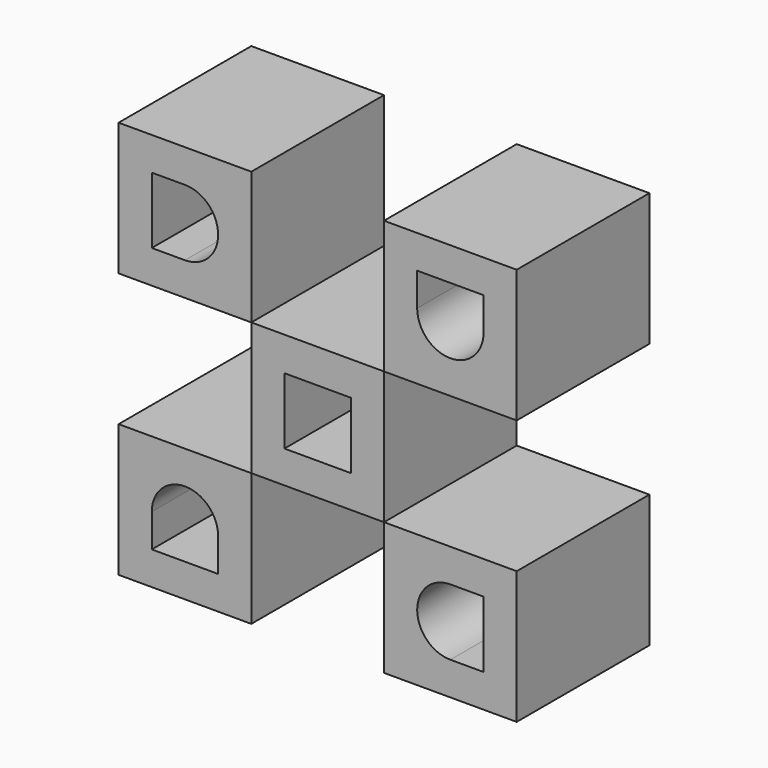
from build123d import *

# Parameters (mm, degrees)
F0_W     = 10
F0_H     = 10
F1_DEPTH = 25


with BuildPart() as f1:
    # F0 (on Front) → F1 (new body)
    with BuildSketch(Plane.XZ):
        Polygon((0, 10), (0, 0), (20, 0), (20, 10), (20, 20), (0, 20), align=None)
        with Locations((9.993712, 9.886267)):
            Rectangle(F0_W, F0_H, mode=Mode.SUBTRACT)
        Polygon((-20, 20), (0, 20), (0, 30), (0, 40), (-20, 40), align=None)
        with BuildLine():
            Line((-15, 30), (-15, 35))
            Line((-15, 35), (-10, 35))
            ThreePointArc((-10, 35), (-6.464466, 33.535534), (-5, 30))
            ThreePointArc((-5, 30), (-6.464466, 26.464466), (-10, 25))
            Line((-10, 25), (-15, 25))
            Line((-15, 25), (-15, 30))
        make_face(mode=Mode.SUBTRACT)
        Polygon((20, 30), (20, 20), (40, 20), (40, 40), (20, 40), align=None)
        with BuildLine():
            Line((30, 35), (35, 35))
            Line((35, 35), (35, 30))
            ThreePointArc((35, 30), (30, 25), (25, 30))
            Line((25, 30), (25, 35))
            Line((25, 35), (30, 35))
        make_face(mode=Mode.SUBTRACT)
        Polygon((40, 0), (20, 0), (20, -10), (20, -20), (40, -20), align=None)
        with BuildLine():
            ThreePointArc((30, -15), (25, -10), (30, -5))
            Line((30, -5), (35, -5))
            Line((35, -5), (35, -10))
            Line((35, -10), (35, -15))
            Line((35, -15), (30, -15))
        make_face(mode=Mode.SUBTRACT)
        Polygon((0, -10), (0, 0), (-20, 0), (-20, -20), (0, -20), align=None)
        with BuildLine():
            Line((-10, -15), (-15, -15))
            Line((-15, -15), (-15, -10))
            ThreePointArc((-15, -10), (-10, -5), (-5, -10))
            Line((-5, -10), (-5, -15))
            Line((-5, -15), (-10, -15))
        make_face(mode=Mode.SUBTRACT)
    extrude(amount=F1_DEPTH)


solid = f1.part
